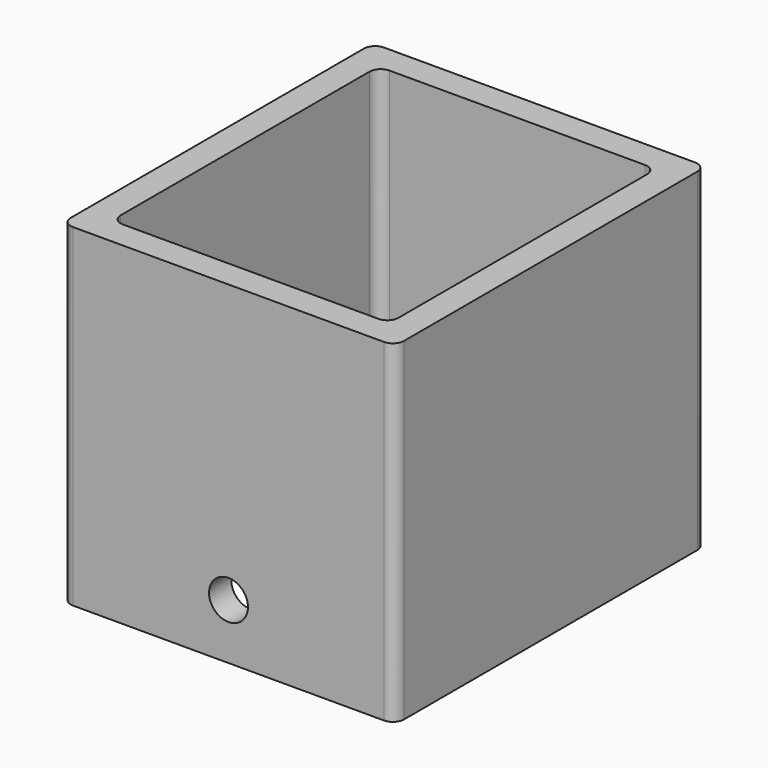
from build123d import *

# Parameters (mm, degrees)
F0_W     = 60
F0_H     = 70
F0_W_2   = 50
F0_H_2   = 60
F1_DEPTH = 60
F2_R     = 2
F3_R     = 3.5
F4_DEPTH = 70


with BuildPart() as f1:
    # F0 (on Top) → F1 (new body)
    with BuildSketch(Plane.XY):
        Rectangle(F0_W, F0_H)
        Rectangle(F0_W_2, F0_H_2, mode=Mode.SUBTRACT)
    extrude(amount=F1_DEPTH)

    # F2
    f2_edges = [f1.edges().sort_by_distance(p)[0] for p in [
        (-30, 35, 30),
        (30, 35, 30),
        (30, -35, 30),
        (-30, -35, 30),
        (-25, 30, 30),
        (-25, -30, 30),
        (25, -30, 30),
        (25, 30, 30),
    ]]
    fillet(f2_edges, radius=F2_R)

    # F3 (on face) → F4 (cut)
    with BuildSketch(Plane.XZ.offset(35)):
        with Locations((0, 10)):
            Circle(F3_R)
    extrude(amount=-F4_DEPTH, mode=Mode.SUBTRACT)


solid = f1.part
